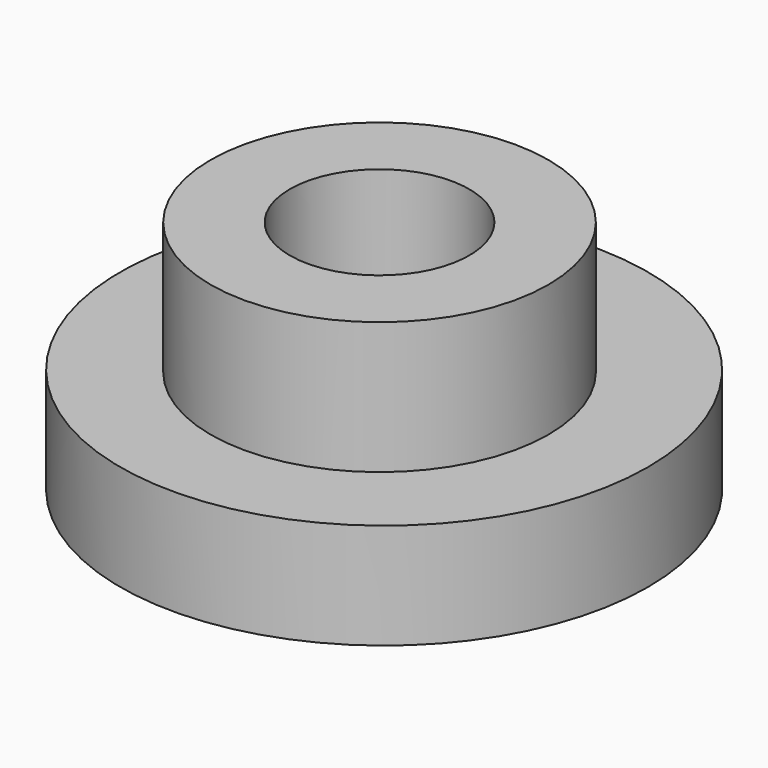
from build123d import *

# Parameters (mm, degrees)
F0_R     = 50
F1_DEPTH = 20
F2_R     = 32
F3_DEPTH = 25
F5_D     = 34


with BuildPart() as f1:
    # F0 (on Top) → F1 (new body)
    with BuildSketch(Plane.XY):
        with Locations((0, 1.086205)):
            Circle(F0_R)
    extrude(amount=F1_DEPTH)

    # F2 (on face) → F3 (join)
    with BuildSketch(Plane.XY.offset(20)):
        Circle(F2_R)
    extrude(amount=F3_DEPTH)

    # F5 (through all)
    with Locations(Plane.XY.offset(45)):
        with Locations((0, 0)):
            Hole(F5_D / 2)


solid = f1.part
